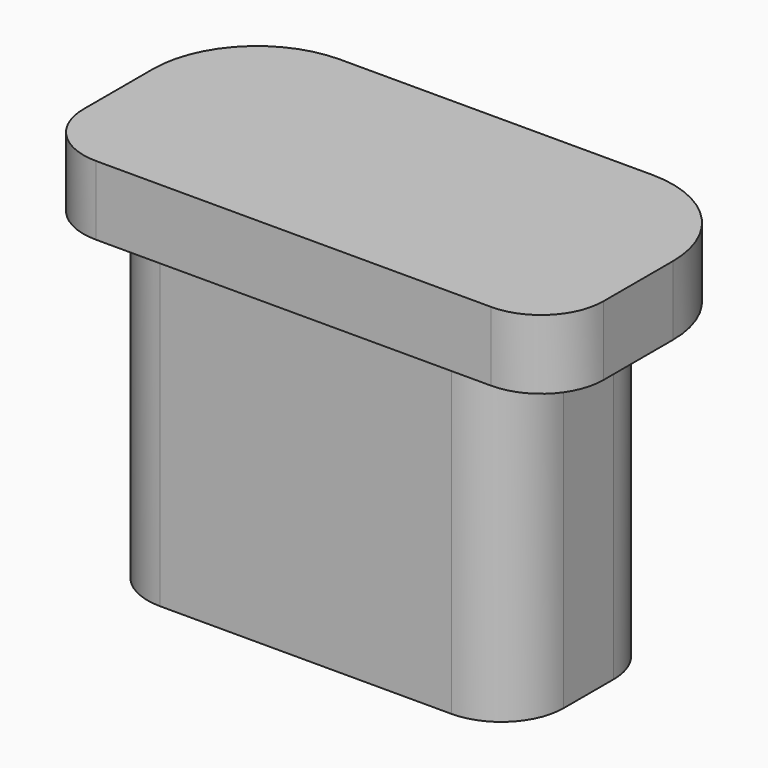
from build123d import *

# Parameters (mm, degrees)
EXTRUDE230_DEPTH          = 1
EXTRUDE229_DEPTH          = 5
FUSION223_PLACEMENT_ANGLE = 90


with BuildPart() as extrude230:
    # Sketch232 → Extrude230 (new body)
    with BuildSketch(Plane.XZ):
        with BuildLine():
            ThreePointArc((11.7, 16.35), (11.063604, 16.086396), (10.8, 15.45))
            Line((10.8, 14.2), (10.8, 15.45))
            ThreePointArc((10.8, 14.2), (11.23934, 13.13934), (12.3, 12.7))
            Line((16.8, 12.7), (12.3, 12.7))
            ThreePointArc((16.8, 12.7), (17.86066, 13.13934), (18.3, 14.2))
            Line((18.3, 15.45), (18.3, 14.2))
            ThreePointArc((18.3, 15.45), (18.036396, 16.086396), (17.4, 16.35))
            Line((11.7, 16.35), (17.4, 16.35))
        make_face()
    extrude(amount=EXTRUDE230_DEPTH)


with BuildPart() as extrude230_1:
    # Extrude230 placement: moved
    add(extrude230.part.moved(Location((0, 2.5, 0))))


with BuildPart() as button005:
    # Sketch231 → Extrude229 (new body)
    with BuildSketch(Plane.XZ):
        with BuildLine():
            ThreePointArc((12.75, 16.23), (12.113604, 15.966396), (11.85, 15.33))
            Line((11.85, 14.43), (11.85, 15.33))
            ThreePointArc((11.85, 14.43), (12.113604, 13.793604), (12.75, 13.53))
            Line((16.95, 13.53), (12.75, 13.53))
            ThreePointArc((16.95, 13.53), (17.586396, 13.793604), (17.85, 14.43))
            Line((17.85, 15.33), (17.85, 14.43))
            ThreePointArc((17.85, 15.33), (17.586396, 15.966396), (16.95, 16.23))
            Line((12.75, 16.23), (16.95, 16.23))
        make_face()
    extrude(amount=EXTRUDE229_DEPTH)


with BuildPart() as button005_1:
    # Extrude229 placement: moved
    add(button005.part.moved(Location((-0.3, 2, -0.1))))

    # Fusion223: union Extrude230
    add(extrude230_1.part)


with BuildPart() as button005_2:
    # Fusion223 placement: moved
    add(button005_1.part.moved(Location((72, 9.5, -78))).rotate(Axis((72, 9.5, -78), (1, 0, 0)), FUSION223_PLACEMENT_ANGLE))


solid = button005_2.part
